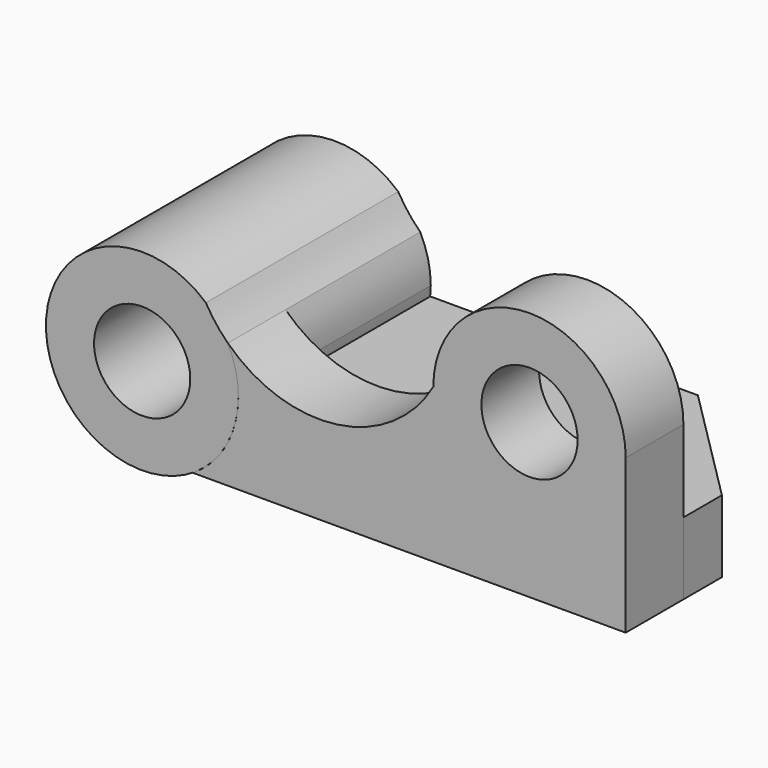
from build123d import *

# Parameters (mm, degrees)
F0_R     = 10
F1_DEPTH = 15
F2_DEPTH = 50
F3_DEPTH = 50
F5_DEPTH = 35
F6_SIZE  = 25


with BuildPart() as f1:
    # F0 (on Front) → F1 (new body)
    with BuildSketch(Plane.XZ):
        with BuildLine():
            Line((-50, 0), (40, 0))
            Line((40, 0), (40, 32))
            ThreePointArc((40, 32), (20, 52), (0, 32))
            ThreePointArc((0, 32), (-19.9147775385, 18.5953448685), (-42.7142753659, 26.1097338935))
            ThreePointArc((-42.7142753659, 26.1097338935), (-41.0786099469, 21.6887698307), (-40.5231018317, 17.0077725714))
            ThreePointArc((-40.5231018317, 17.0077725714), (-43.0522398519, 7.2728364297), (-50, 0))
        make_face()
        with Locations((20, 32)):
            Circle(F0_R, mode=Mode.SUBTRACT)
    extrude(amount=-F1_DEPTH)

    # F0 (on Front) → F3 (cut)
    with BuildSketch(Plane.XZ):
        with Locations((-60.5231018317, 17.0077725714)):
            Circle(F0_R)
    extrude(amount=-F3_DEPTH, mode=Mode.SUBTRACT)


with BuildPart() as f2:
    # F0 (on Front) → F2 (new body)
    with BuildSketch(Plane.XZ):
        with BuildLine():
            ThreePointArc((-47.2855372246, 32), (-80.4515317098, 18.69824073), (-50, 0))
            ThreePointArc((-50, 0), (-43.0522398519, 7.2728364297), (-40.5231018317, 17.0077725714))
            ThreePointArc((-40.5231018317, 17.0077725714), (-41.0786099469, 21.6887698307), (-42.7142753659, 26.1097338935))
            ThreePointArc((-42.7142753659, 26.1097338935), (-45.2020157863, 28.8980157297), (-47.2855372246, 32))
        make_face()
        with Locations((-60.5231018317, 17.0077725714)):
            Circle(F0_R, mode=Mode.SUBTRACT)
    extrude(amount=-F2_DEPTH)


with BuildPart() as f5:
    # F4 (on face) → F5 (new body)
    with BuildSketch(Plane(origin=(0, 15, 0), x_dir=(-1, 0, 0), z_dir=(0, 1, 0))):
        with BuildLine():
            Line((40.6241357957, 15), (-40, 15))
            Line((-40, 15), (-40, 0))
            Line((-40, 0), (50, 0))
            ThreePointArc((50, 0), (43.5635749121, 6.4070911469), (40.6241357957, 15))
        make_face()
    extrude(amount=F5_DEPTH)

    # F6
    f6_edges = [f5.edges().sort_by_distance(p)[0] for p in [
        (40, 50, 7.5),
    ]]
    chamfer(f6_edges, length=F6_SIZE)


solid = Compound([f1.part, f2.part, f5.part])
